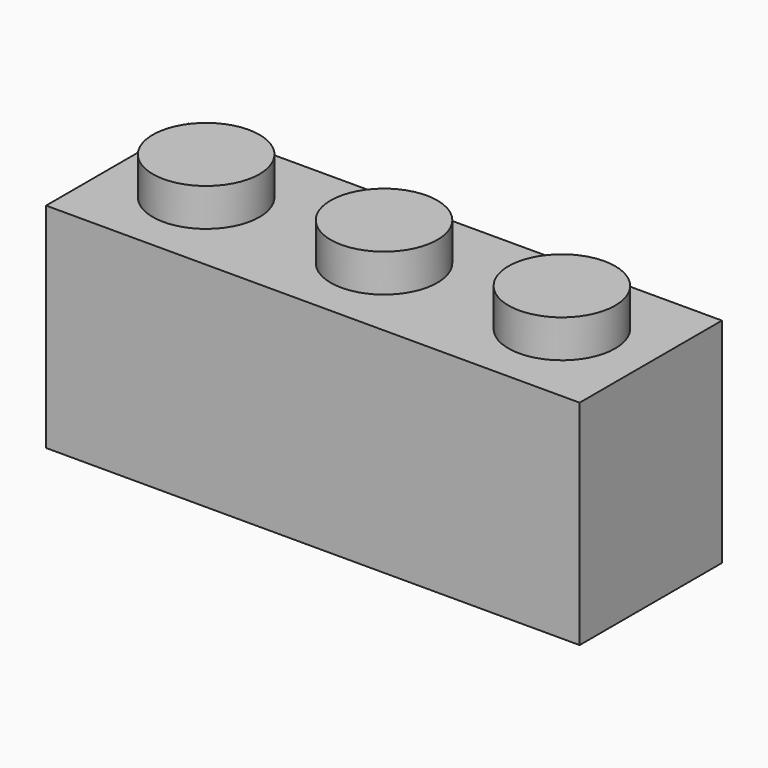
from build123d import *

# Parameters (mm, degrees)
F1_DEPTH  = 8
F3_W      = 8
F3_H      = 8
F3_R      = 2.4
F4_DEPTH  = 1.7
F5_R      = 2.4
F6_DEPTH  = 1.7
F11_W     = 18.3417219669
F11_H     = 18.5978962108
F12_DEPTH = 8.001


with BuildPart() as f1:
    # F0 (on Front) → F1 (new body)
    with BuildSketch(Plane.XZ):
        Polygon((-2.4, 9.6), (-4, 9.6), (-4, 0), (4, 0), (4, 9.6), (2.4, 9.6), (2.4, 11.3), (-2.4, 11.3), align=None)
    extrude(amount=F1_DEPTH)

    # F3 (on plane+point) → F4 (cut, through all)
    with BuildSketch(Plane.XY.offset(11.3)):
        with Locations((0, -4)):
            Rectangle(F3_W, F3_H)
        with Locations((0, -4)):
            Circle(F3_R, mode=Mode.SUBTRACT)
    extrude(amount=-F4_DEPTH, mode=Mode.SUBTRACT)

    # F5 (on Top) → F6 (cut)
    with BuildSketch(Plane.XY):
        with Locations((0, -4)):
            Circle(F5_R)
    extrude(amount=F6_DEPTH, mode=Mode.SUBTRACT)

    # F8: F1 across plane


with BuildPart() as f1_1:
    add(f1.part)
    add(f1.part.mirror(Plane.YZ.offset(4)))

    # F10: F1 across plane


with BuildPart() as f1_2:
    add(f1_1.part)
    add(f1_1.part.mirror(Plane.YZ.offset(12)))

    # F11 (on face) → F12 (cut)
    with BuildSketch(Plane.YZ.offset(28)):
        with Locations((-4.3679764494, 6.4113480039)):
            Rectangle(F11_W, F11_H)
    extrude(amount=-F12_DEPTH, mode=Mode.SUBTRACT)


solid = f1_2.part
